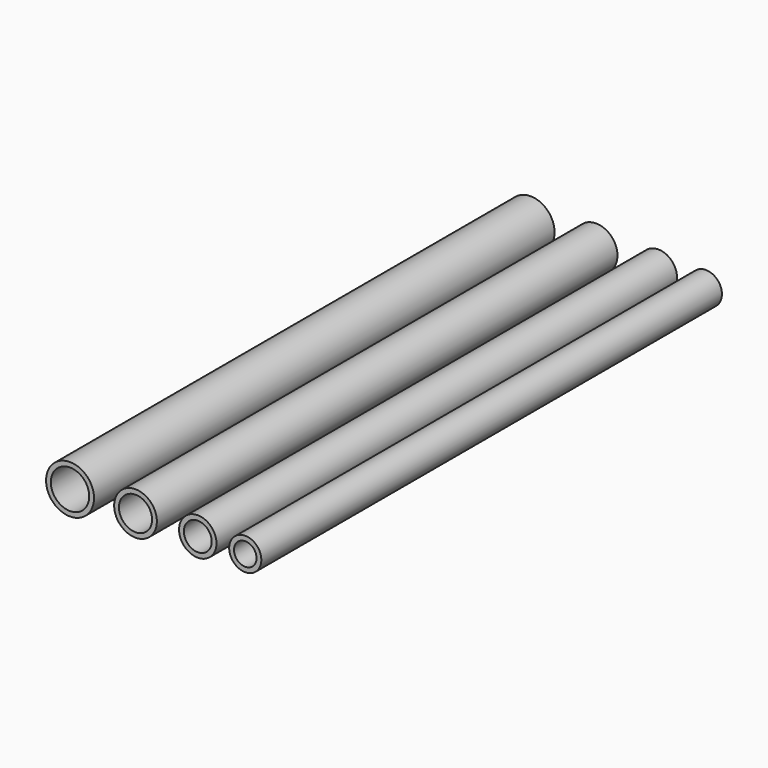
from build123d import *

# Parameters (mm, degrees)
F0_R     = 12.7
F0_R_2   = 10.16
F0_R_3   = 11.303
F0_R_4   = 8.763
F0_R_5   = 9.906
F0_R_6   = 7.366
F0_R_7   = 8.509
F0_R_8   = 5.969
F1_DEPTH = 304.8
F2_DEPTH = 2.54


with BuildPart() as f1:
    # F0 (on Front) → F1 (new body)
    with BuildSketch(Plane.XZ):
        with Locations((-55.91175, 0)):
            Circle(F0_R)
        with Locations((-55.91175, 0)):
            Circle(F0_R_2, mode=Mode.SUBTRACT)
        with Locations((-21.24075, 0)):
            Circle(F0_R_3)
        with Locations((-21.24075, 0)):
            Circle(F0_R_4, mode=Mode.SUBTRACT)
        with Locations((11.715749, 0)):
            Circle(F0_R_5)
        with Locations((11.715749, 0)):
            Circle(F0_R_6, mode=Mode.SUBTRACT)
        with Locations((36.861751, 0)):
            Circle(F0_R_7)
        with Locations((36.861751, 0)):
            Circle(F0_R_8, mode=Mode.SUBTRACT)
    extrude(amount=F1_DEPTH)

    # F0 (on Front) → F2 (join)
    with BuildSketch(Plane.XZ):
        with Locations((-55.91175, 0)):
            Circle(F0_R_2)
        with Locations((-21.24075, 0)):
            Circle(F0_R_4)
        with Locations((11.715749, 0)):
            Circle(F0_R_6)
        with Locations((36.861751, 0)):
            Circle(F0_R_8)
    extrude(amount=F2_DEPTH)


solid = f1.part
